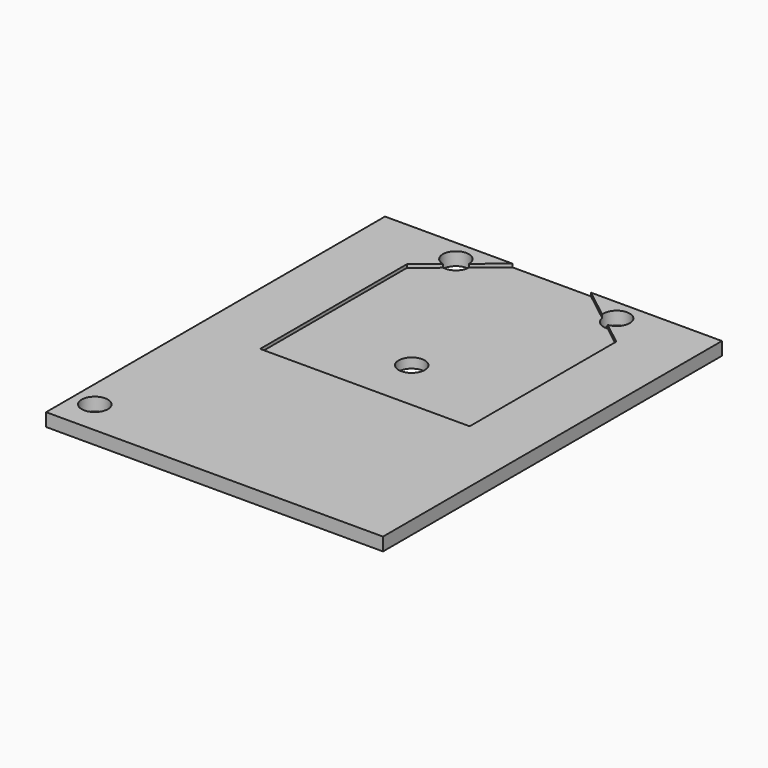
from build123d import *

# Parameters (mm, degrees)
F0_W     = 40.8432
F0_H     = 51.3588
F0_R     = 1.5875
F1_DEPTH = 1.5875
F3_DEPTH = 0.396875


with BuildPart() as f1:
    # F0 (on Top) → F1 (new body)
    with BuildSketch(Plane.XY):
        Rectangle(F0_W, F0_H)
        with Locations((-17.8181, -21.5519)):
            Circle(F0_R, mode=Mode.SUBTRACT)
        with Locations((-9.7409, 23.0759)):
            Circle(F0_R, mode=Mode.SUBTRACT)
        with Locations((0.1143, 4.0513)):
            Circle(F0_R, mode=Mode.SUBTRACT)
        with Locations((9.7409, 23.0759)):
            Circle(F0_R, mode=Mode.SUBTRACT)
    extrude(amount=F1_DEPTH)

    # F2 (on face) → F3 (cut)
    with BuildSketch(Plane.XY.offset(1.5875)):
        Polygon((4.5466, 25.6794), (-4.9784, 25.6794), (-12.7, 19.3294), (-12.7, -2.8956), (12.7, -2.8956), (12.7, 19.3294), align=None)
    extrude(amount=-F3_DEPTH, mode=Mode.SUBTRACT)


solid = f1.part
